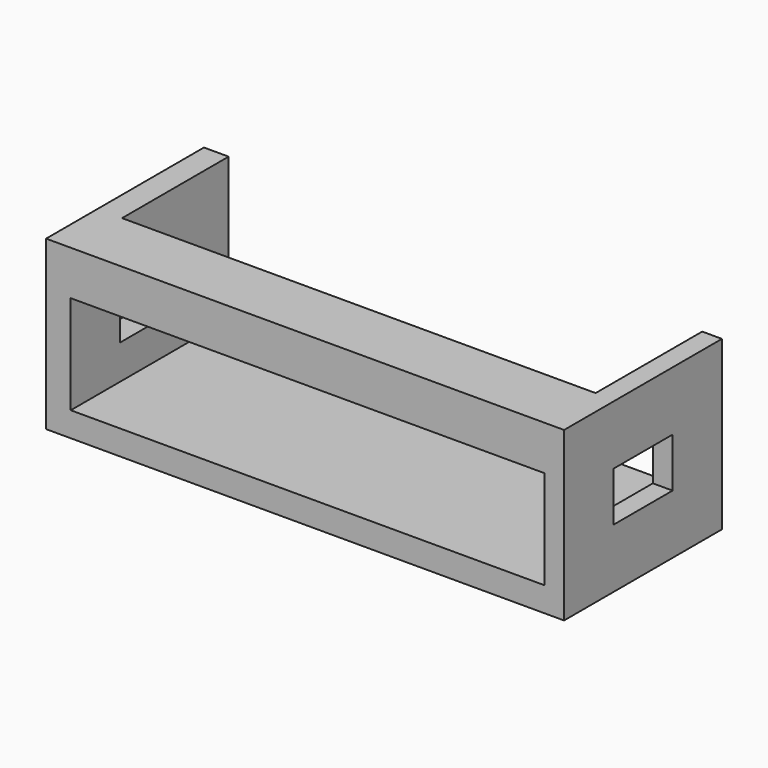
from build123d import *

# Parameters (mm, degrees)
F0_W     = 105
F0_H     = 40
F1_DEPTH = 34
F2_W     = 96
F2_H     = 20
F3_DEPTH = 40.001
F4_W     = 96
F4_H     = 27
F5_DEPTH = 10
F6_W     = 15
F6_H     = 10
F7_DEPTH = 105.001


with BuildPart() as f1:
    # F0 (on Top) → F1 (new body)
    with BuildSketch(Plane.XY):
        with Locations((8.404606, -17.624996)):
            Rectangle(F0_W, F0_H)
    extrude(amount=F1_DEPTH)

    # F2 (on face) → F3 (cut, through all)
    with BuildSketch(Plane.XZ.offset(37.624996)):
        with Locations((8.904606, 15)):
            Rectangle(F2_W, F2_H)
    extrude(amount=-F3_DEPTH, mode=Mode.SUBTRACT)

    # F4 (on face) → F5 (cut)
    with BuildSketch(Plane.XY.offset(34)):
        with Locations((8.904606, -11.124996)):
            Rectangle(F4_W, F4_H)
    extrude(amount=-F5_DEPTH, mode=Mode.SUBTRACT)

    # F6 (on face) → F7 (cut, through all)
    with BuildSketch(Plane.YZ.offset(60.904606)):
        with Locations((-17.624996, 17)):
            Rectangle(F6_W, F6_H)
    extrude(amount=-F7_DEPTH, mode=Mode.SUBTRACT)


solid = f1.part
